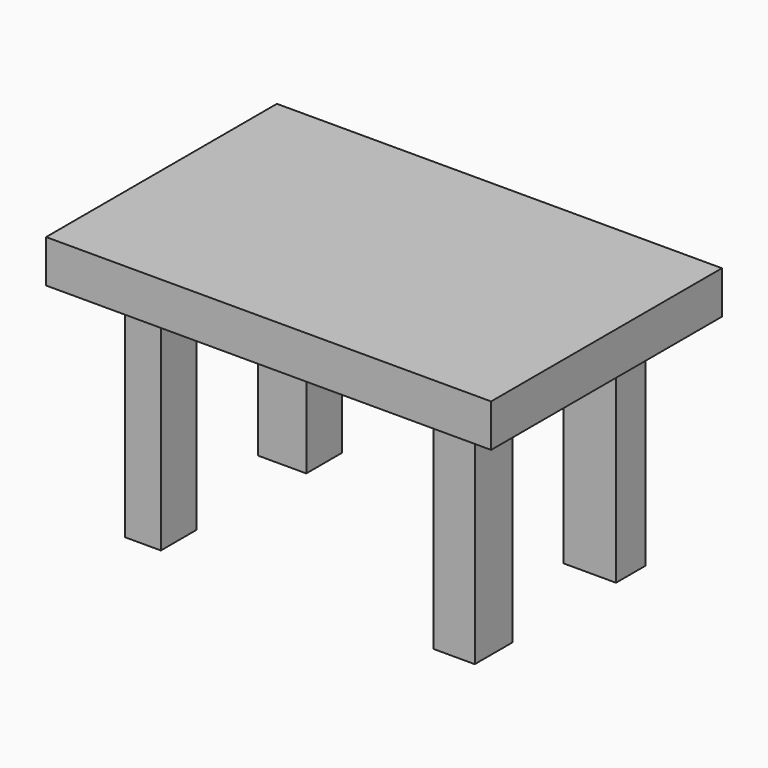
from build123d import *

# Parameters (mm, degrees)
F0_W     = 51.322882995
F0_H     = 4.9239350483
F1_DEPTH = 33.274
F2_W     = 4.1453018785
F2_H     = 5.1284935325
F3_DEPTH = 25.4
F4_W     = 4.7375038266
F4_H     = 5.470385775
F5_DEPTH = 25.4
F6_W     = 5.5771172047
F6_H     = 5.1148859784
F7_DEPTH = 25.4
F8_W     = 6.0726962984
F8_H     = 4.2278408073
F9_DEPTH = 25.4


with BuildPart() as f1:
    # F0 (on Front) → F1 (new body)
    with BuildSketch(Plane.XZ):
        with Locations((-45.2036233619, 14.5862386562)):
            Rectangle(F0_W, F0_H)
    extrude(amount=F1_DEPTH)

    # F2 (on face) → F3 (join)
    with BuildSketch(Plane(origin=(0, 0, 12.1242711321), x_dir=(1, 0, 0), z_dir=(0, 0, -1))):
        with Locations((-63.0641318858, 26.5037836507)):
            Rectangle(F2_W, F2_H)
    extrude(amount=F3_DEPTH)

    # F4 (on face) → F5 (join)
    with BuildSketch(Plane(origin=(0, 0, 12.1242711321), x_dir=(1, 0, 0), z_dir=(0, 0, -1))):
        with Locations((-27.434207499, 25.9909359738)):
            Rectangle(F4_W, F4_H)
    extrude(amount=F5_DEPTH)

    # F6 (on face) → F7 (join)
    with BuildSketch(Plane(origin=(0, 0, 12.1242711321), x_dir=(1, 0, 0), z_dir=(0, 0, -1))):
        with Locations((-62.9411712289, 6.5979263745)):
            Rectangle(F6_W, F6_H)
    extrude(amount=F7_DEPTH)

    # F8 (on face) → F9 (join)
    with BuildSketch(Plane(origin=(0, 0, 12.1242711321), x_dir=(1, 0, 0), z_dir=(0, 0, -1))):
        with Locations((-28.0904341489, 6.2653592322)):
            Rectangle(F8_W, F8_H)
    extrude(amount=F9_DEPTH)


solid = f1.part
